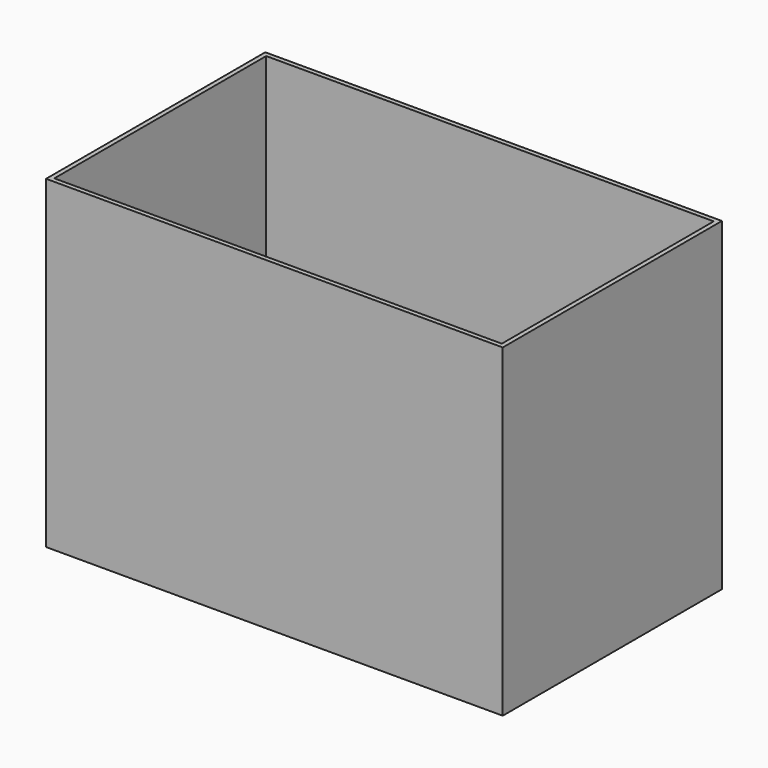
from build123d import *

# Parameters (mm, degrees)
F0_W     = 500
F0_H     = 300
F0_W_2   = 489.9999916553
F0_H_2   = 289.9999916553
F1_DEPTH = 5
F2_DEPTH = 350


with BuildPart() as f1:
    # F0 (on Top) → F1 (new body)
    with BuildSketch(Plane.XY):
        Rectangle(F0_W, F0_H)
        Rectangle(F0_W_2, F0_H_2, mode=Mode.SUBTRACT)
        Rectangle(F0_W_2, F0_H_2)
    extrude(amount=-F1_DEPTH)

    # F0 (on Top) → F2 (join)
    with BuildSketch(Plane.XY):
        Rectangle(F0_W, F0_H)
        Rectangle(F0_W_2, F0_H_2, mode=Mode.SUBTRACT)
    extrude(amount=F2_DEPTH)


solid = f1.part
